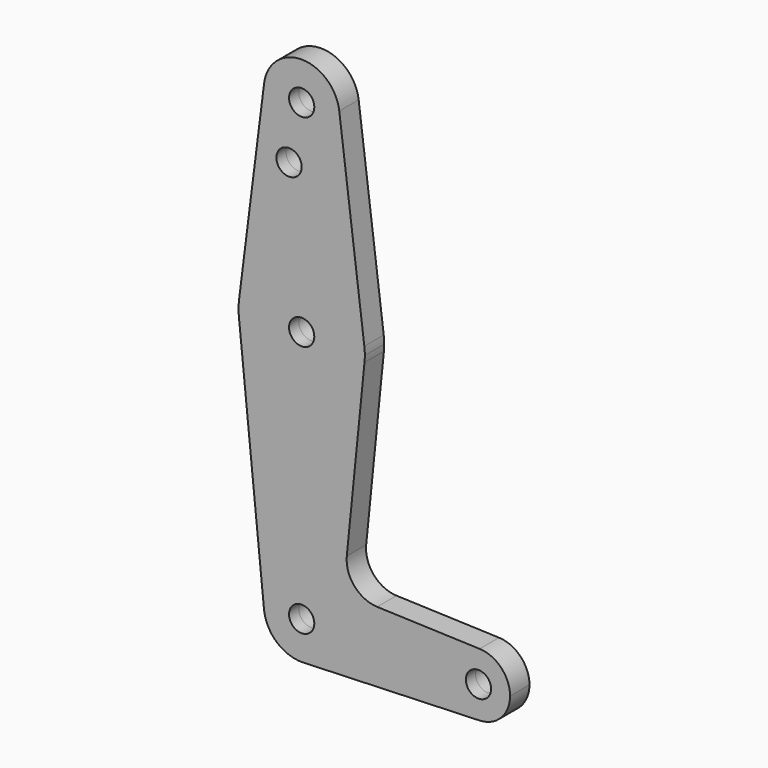
from build123d import *

# Parameters (mm, degrees)
F0_R          = 3.175
F1_DEPTH      = 3.048
F1_DEPTH_BACK = 3.048


with BuildPart() as f1:
    # F0 (on Front) → F1 (new body, two sides)
    with BuildSketch(Plane.XZ) as f1_sk:
        with BuildLine():
            ThreePointArc((-66.490328, 81.796864), (-57.389826, 71.496208), (-47.472626, 81.01313))
            ThreePointArc((-47.472626, 81.01313), (-47.491321, 81.609613), (-47.547333, 82.203755))
            ThreePointArc((-47.547333, 82.203755), (-57.202173, 90.535933), (-66.490328, 81.796864))
        make_face()
        with Locations((-56.997626, 81.01313)):
            Circle(F0_R, mode=Mode.SUBTRACT)
        with BuildLine():
            ThreePointArc((-47.547333, 82.203755), (-47.491321, 81.609613), (-47.472626, 81.01313))
            ThreePointArc((-47.472626, 81.01313), (-57.389826, 71.496208), (-66.490328, 81.796864))
            Line((-66.490328, 81.796864), (-72.747765, 32.200273))
            ThreePointArc((-72.747765, 32.200273), (-56.996231, 46.08813), (-41.247138, 32.197505))
            Line((-41.247138, 32.197505), (-47.547333, 82.203755))
        make_face()
        with Locations((-60.172626, 66.73833)):
            Circle(F0_R, mode=Mode.SUBTRACT)
        with BuildLine():
            ThreePointArc((-41.122626, 30.21313), (-41.153785, 31.207269), (-41.247138, 32.197505))
            ThreePointArc((-41.247138, 32.197505), (-56.996231, 46.08813), (-72.747765, 32.200273))
            ThreePointArc((-72.747765, 32.200273), (-72.871369, 30.412875), (-72.79278, 28.622934))
            ThreePointArc((-72.79278, 28.622934), (-56.996271, 14.33813), (-41.202201, 28.62563))
            ThreePointArc((-41.202201, 28.62563), (-41.142532, 29.418383), (-41.122626, 30.21313))
        make_face()
        with Locations((-56.997626, 30.21313)):
            Circle(F0_R, mode=Mode.SUBTRACT)
        with BuildLine():
            ThreePointArc((-41.202201, 28.62563), (-56.996271, 14.33813), (-72.79278, 28.622934))
            Line((-72.79278, 28.622934), (-66.509378, -33.78907))
            ThreePointArc((-66.509378, -33.78907), (-57.248813, -23.765183), (-47.472626, -33.28687))
            ThreePointArc((-47.472626, -33.28687), (-50.143137, -39.900614), (-56.657215, -42.805785))
            Line((-56.657215, -42.805785), (-12.395022, -41.222903))
            ThreePointArc((-12.395022, -41.222903), (-20.484861, -33.221945), (-12.265221, -25.354396))
            Line((-12.265221, -25.354396), (-38.029298, -24.437165))
            ThreePointArc((-38.029298, -24.437165), (-43.736422, -21.719407), (-45.65679, -15.696978))
            Line((-45.65679, -15.696978), (-41.202201, 28.62563))
        make_face()
        with BuildLine():
            ThreePointArc((-47.472626, -33.28687), (-57.248813, -23.765183), (-66.509378, -33.78907))
            ThreePointArc((-66.509378, -33.78907), (-63.428308, -40.313389), (-56.657215, -42.805785))
            ThreePointArc((-56.657215, -42.805785), (-50.143137, -39.900614), (-47.472626, -33.28687))
        make_face()
        with Locations((-56.997626, -33.28687)):
            Circle(F0_R, mode=Mode.SUBTRACT)
        with BuildLine():
            ThreePointArc((-12.265221, -25.354396), (-20.484861, -33.221945), (-12.395022, -41.222903))
            ThreePointArc((-12.395022, -41.222903), (-6.881269, -38.845315), (-4.610126, -33.28687))
            ThreePointArc((-4.610126, -33.28687), (-6.835993, -27.77496), (-12.265221, -25.354396))
        make_face()
        with Locations((-12.547626, -33.28687)):
            Circle(F0_R, mode=Mode.SUBTRACT)
    extrude(amount=F1_DEPTH)
    extrude(f1_sk.sketch, amount=-F1_DEPTH_BACK)


solid = f1.part
